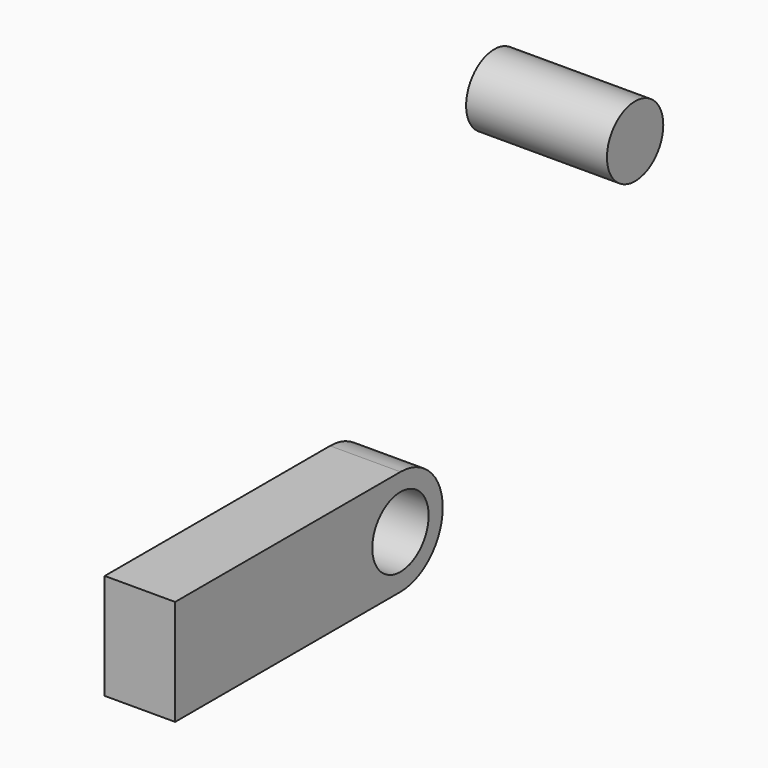
from build123d import *

# Parameters (mm, degrees)
F0_R     = 5
F1_DEPTH = 10
F2_R     = 5
F3_DEPTH = 20


with BuildPart() as f1:
    # F0 (on Right) → F1 (new body)
    with BuildSketch(Plane.YZ):
        with BuildLine():
            ThreePointArc((0, -7.5), (5.303301, -5.303301), (7.5, 0))
            ThreePointArc((7.5, 0), (5.303301, 5.303301), (0, 7.5))
            ThreePointArc((0, 7.5), (-7.5, 0), (0, -7.5))
        make_face()
        Circle(F0_R, mode=Mode.SUBTRACT)
        with BuildLine():
            ThreePointArc((0, -7.5), (-7.5, 0), (0, 7.5))
            Line((0, 7.5), (-40, 7.5))
            Line((-40, 7.5), (-40, -7.5))
            Line((-40, -7.5), (0, -7.5))
        make_face()
    extrude(amount=F1_DEPTH)


with BuildPart() as f3:
    # F2 (on Right) → F3 (new body)
    with BuildSketch(Plane.YZ):
        with Locations((29.153338, 40.238805)):
            Circle(F2_R)
    extrude(amount=F3_DEPTH)


solid = Compound([f1.part, f3.part])
